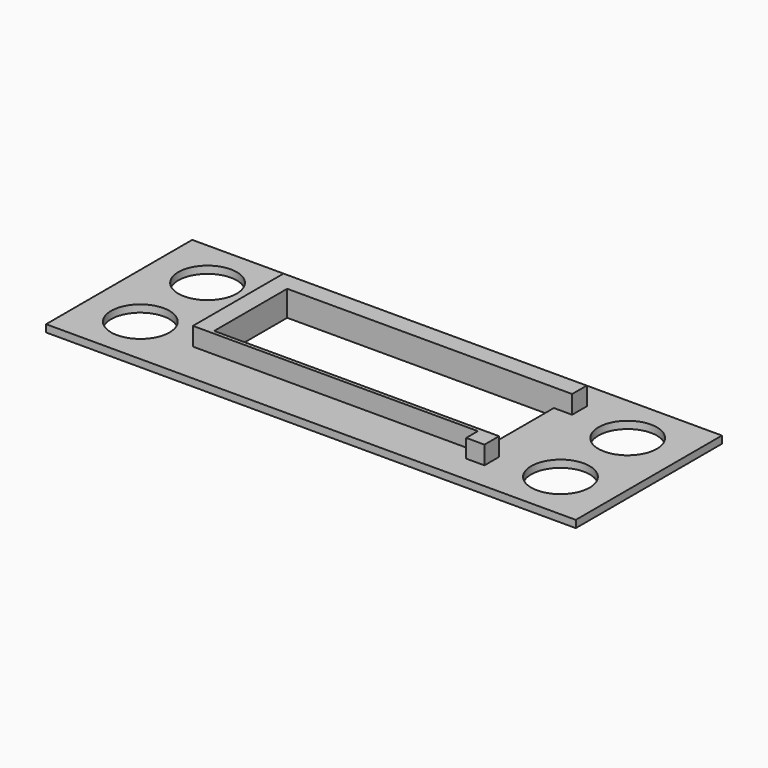
from build123d import *

# Parameters (mm, degrees)
SKETCH_W     = 145
SKETCH_H     = 50
SKETCH_R     = 8
SKETCH_W_2   = 73
SKETCH_H_2   = 25
PAD_DEPTH    = 2
PAD001_DEPTH = 5


with BuildPart() as part:
    # Sketch → Pad (new body)
    with BuildSketch(Plane.XY):
        with Locations((72.5, 25)):
            Rectangle(SKETCH_W, SKETCH_H)
        with Locations((15, 13.5)):
            Circle(SKETCH_R, mode=Mode.SUBTRACT)
        with Locations((15, 36.5)):
            Circle(SKETCH_R, mode=Mode.SUBTRACT)
        with Locations((130, 13.5)):
            Circle(SKETCH_R, mode=Mode.SUBTRACT)
        with Locations((130, 36.5)):
            Circle(SKETCH_R, mode=Mode.SUBTRACT)
        with Locations((72.5, 25)):
            Rectangle(SKETCH_W_2, SKETCH_H_2, mode=Mode.SUBTRACT)
    extrude(amount=PAD_DEPTH)

    # Sketch001 (on Face14 of Pad) → Pad001 (join)
    with BuildSketch(Plane.XY.offset(2)):
        Polygon((36, 12.5), (109, 12.5), (114, 12.5), (114, 7.5), (109, 7.5), (109, 11.5), (31, 11.5), (31, 42.5), (109, 42.5), (114, 42.5), (114, 37.5), (109, 37.5), (36, 37.5), align=None)
    extrude(amount=PAD001_DEPTH)


solid = part.part
